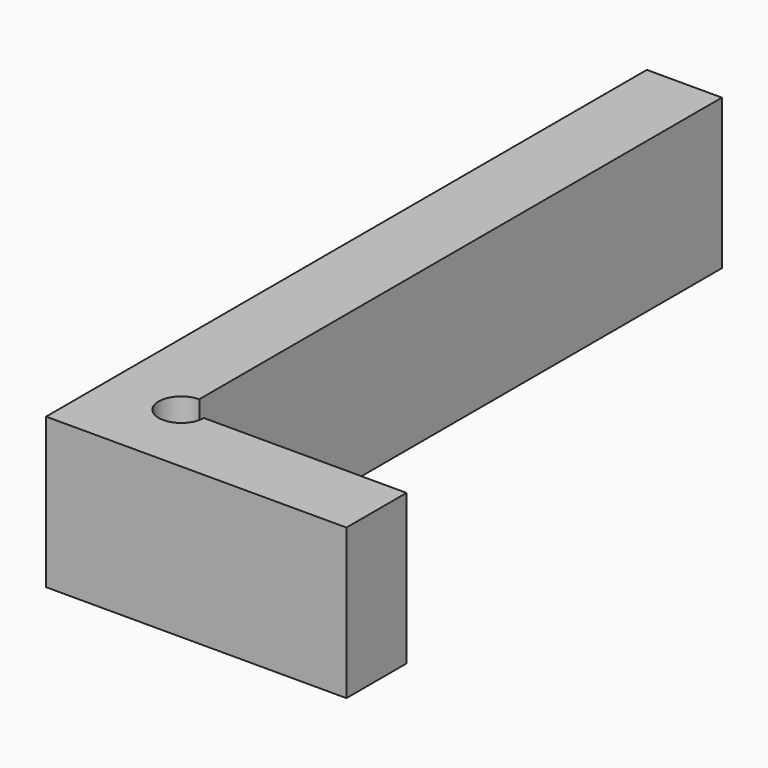
from build123d import *

# Parameters (mm, degrees)
F1_DEPTH = 10


with BuildPart() as f1:
    # F0 (on Top) → F1 (new body)
    with BuildSketch(Plane.XY):
        with BuildLine():
            Line((-4.780206, -10.242023), (-4.780206, 33.257977))
            Line((-4.780206, 33.257977), (-9.780206, 33.257977))
            Line((-9.780206, 33.257977), (-9.780206, -16.742023))
            Line((-9.780206, -16.742023), (10.219794, -16.742023))
            Line((10.219794, -16.742023), (10.219794, -11.742023))
            Line((10.219794, -11.742023), (-3.280206, -11.742023))
            ThreePointArc((-3.280206, -11.742023), (-5.840866, -12.802683), (-4.780206, -10.242023))
        make_face()
    extrude(amount=F1_DEPTH)


solid = f1.part
